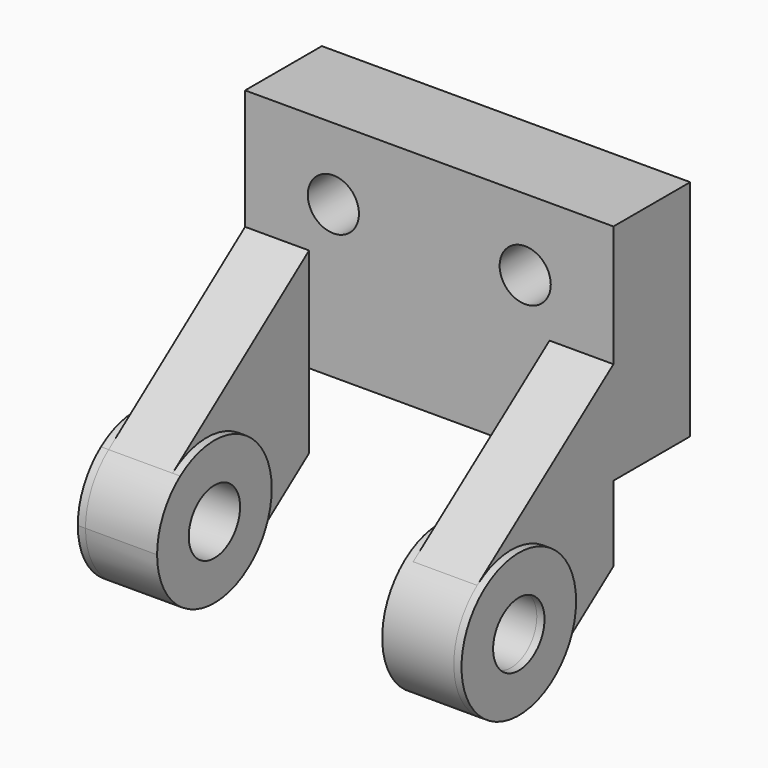
from build123d import *

# Parameters (mm, degrees)
F0_W          = 73.152
F0_H          = 44.45
F0_R          = 5.08
F1_DEPTH      = 19.05
F3_DEPTH      = 12.7
F2_R          = 6.3754
F4_DEPTH      = 1.524
F4_DEPTH_BACK = 14.224
F6_DEPTH      = 12.7
F7_DEPTH      = 1.524
F7_DEPTH_BACK = 14.224


with BuildPart() as f1:
    # F0 (on Front) → F1 (new body)
    with BuildSketch(Plane.XZ):
        Rectangle(F0_W, F0_H)
        with Locations((-19.05, 8.001)):
            Circle(F0_R, mode=Mode.SUBTRACT)
        with Locations((19.05, 8.001)):
            Circle(F0_R, mode=Mode.SUBTRACT)
    extrude(amount=F1_DEPTH)

    # F2 (on face) → F3 (join)
    with BuildSketch(Plane.YZ.offset(36.576)):
        with BuildLine():
            Line((-36.0159397474, -49.6807680986), (-20.4612958716, -38.227))
            Line((-20.4612958716, -38.227), (-30.226, -38.227))
            ThreePointArc((-30.226, -38.227), (-31.7557444284, -44.6440126604), (-36.0159397474, -49.6807680986))
        make_face()
        with BuildLine():
            Line((-19.05, -22.225), (-19.05, -1.8592908906))
            Line((-19.05, -1.8592908906), (-52.8840602526, -26.7732319014))
            ThreePointArc((-52.8840602526, -26.7732319014), (-38.0329873396, -25.5327444284), (-30.226, -38.227))
            Line((-30.226, -38.227), (-20.4612958716, -38.227))
            Line((-20.4612958716, -38.227), (-19.05, -37.187841339))
            Line((-19.05, -37.187841339), (-19.05, -22.225))
        make_face()
    extrude(amount=-F3_DEPTH)

    # F2 (on face) → F4 (join, two sides)
    with BuildSketch(Plane.YZ.offset(36.576)) as f4_sk:
        with BuildLine():
            ThreePointArc((-30.226, -38.227), (-38.0329873396, -25.5327444284), (-52.8840602526, -26.7732319014))
            ThreePointArc((-52.8840602526, -26.7732319014), (-55.9037680986, -46.6610602526), (-36.0159397474, -49.6807680986))
            ThreePointArc((-36.0159397474, -49.6807680986), (-31.7557444284, -44.6440126604), (-30.226, -38.227))
        make_face()
        with Locations((-44.45, -38.227)):
            Circle(F2_R, mode=Mode.SUBTRACT)
    extrude(amount=F4_DEPTH)
    extrude(f4_sk.sketch, amount=-F4_DEPTH_BACK)


with BuildPart() as f6:
    # F5 (on face) → F6 (new body)
    with BuildSketch(Plane(origin=(-36.576, 0, 0), x_dir=(0, -1, 0), z_dir=(-1, 0, 0))):
        with BuildLine():
            Line((30.226, -38.227), (20.5998611319, -38.227))
            Line((20.5998611319, -38.227), (35.9669392883, -49.644524117))
            ThreePointArc((35.9669392883, -49.644524117), (31.7420255044, -44.616801266), (30.226, -38.227))
        make_face()
        with BuildLine():
            Line((52.9330607117, -26.809475883), (19.05, -1.6348357272))
            Line((19.05, -1.6348357272), (19.05, -22.225))
            Line((19.05, -22.225), (19.0440241449, -22.225))
            Line((19.0440241449, -22.225), (19.0397163295, -37.0678342349))
            Line((19.0397163295, -37.0678342349), (20.5998611319, -38.227))
            Line((20.5998611319, -38.227), (30.226, -38.227))
            ThreePointArc((30.226, -38.227), (38.060198734, -25.5190255044), (52.9330607117, -26.809475883))
        make_face()
    extrude(amount=-F6_DEPTH)


with BuildPart() as f7:
    # F5 (on face) → F7 (new body, two sides)
    with BuildSketch(Plane(origin=(-36.576, 0, 0), x_dir=(0, -1, 0), z_dir=(-1, 0, 0))) as f7_sk:
        with BuildLine():
            ThreePointArc((58.674, -38.227), (57.1579744956, -31.837198734), (52.9330607117, -26.809475883))
            ThreePointArc((52.9330607117, -26.809475883), (38.060198734, -25.5190255044), (30.226, -38.227))
            ThreePointArc((30.226, -38.227), (31.7420255044, -44.616801266), (35.9669392883, -49.644524117))
            ThreePointArc((35.9669392883, -49.644524117), (50.839801266, -50.9349744956), (58.674, -38.227))
        make_face()
        with BuildLine():
            ThreePointArc((50.8254, -38.227), (44.45, -44.6024), (38.0746, -38.227))
            ThreePointArc((38.0746, -38.227), (44.45, -31.8516), (50.8254, -38.227))
        make_face(mode=Mode.SUBTRACT)
    extrude(amount=F7_DEPTH)
    extrude(f7_sk.sketch, amount=-F7_DEPTH_BACK)


solid = Compound([f1.part, f6.part, f7.part])
